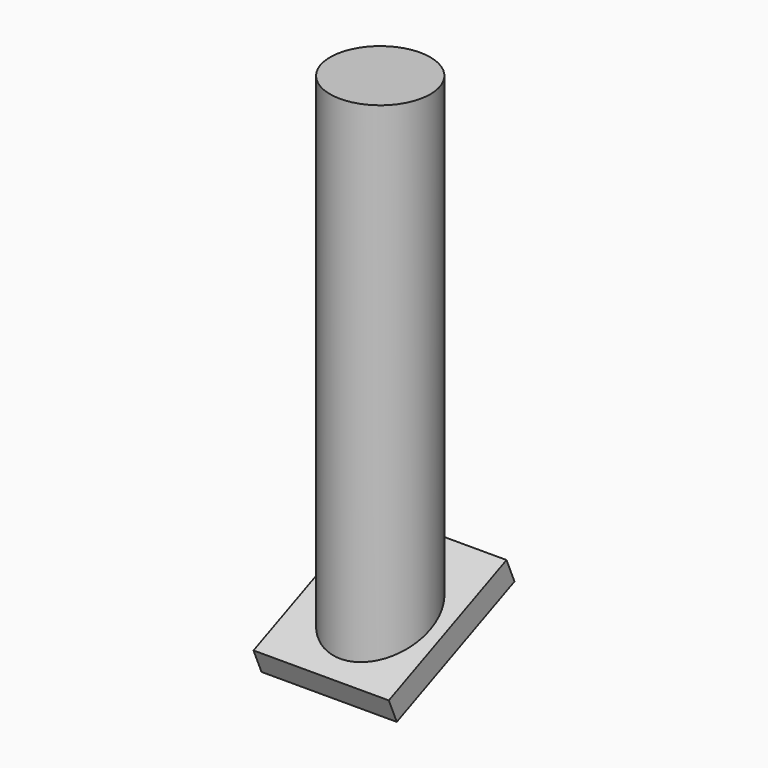
from build123d import *

# Parameters (mm, degrees)
F0_R     = 10
F1_DEPTH = 100
F3_DEPTH = 25
F4_W     = 27
F4_H     = 32
F5_DEPTH = 5


with BuildPart() as f1:
    # F0 (on Top) → F1 (new body)
    with BuildSketch(Plane.XY):
        with Locations((-12.7463750541, 13.7874316424)):
            Circle(F0_R)
    extrude(amount=F1_DEPTH)

    # F2 (on Right) → F3 (cut)
    with BuildSketch(Plane.YZ):
        Polygon((35.4767926037, 15.3907770291), (0, 0), (35.4767926037, 0), align=None)
    extrude(amount=-F3_DEPTH, mode=Mode.SUBTRACT)

    # F4 (on face) → F5 (join)
    with BuildSketch(Plane(origin=(0, 0, 0), x_dir=(1, 0, 0), z_dir=(0, 0.3979883977, -0.9173904487))):
        with Locations((-13.5, -16)):
            Rectangle(F4_W, F4_H)
    extrude(amount=F5_DEPTH)


solid = f1.part
